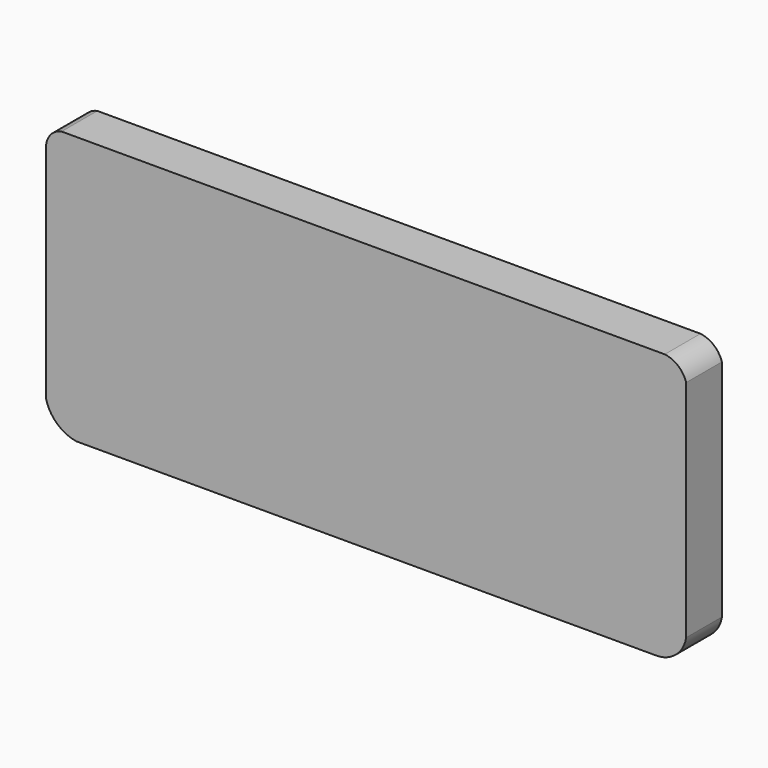
from build123d import *

# Parameters (mm, degrees)
F0_W     = 273.05
F0_H     = 114.3
F1_DEPTH = 19.05
F3_DEPTH = 25.4


with BuildPart() as f1:
    # F0 (on Front) → F1 (new body)
    with BuildSketch(Plane.XZ):
        with Locations((136.525, 57.15)):
            Rectangle(F0_W, F0_H)
    extrude(amount=F1_DEPTH)

    # F2 (on face) → F3 (cut)
    with BuildSketch(Plane.XZ.offset(19.05)):
        with BuildLine():
            ThreePointArc((0, 107.0055749257), (2.092673074, 111.7621294614), (6.6273510973, 114.3))
            Line((6.6273510973, 114.3), (0, 114.3))
            Line((0, 114.3), (0, 107.0055749257))
        make_face()
        with BuildLine():
            ThreePointArc((12.8718363121, 0), (4.7249016701, 3.9496408033), (0, 11.6728208959))
            Line((0, 11.6728208959), (0, 0))
            Line((0, 0), (12.8718363121, 0))
        make_face()
        with BuildLine():
            Line((273.05, 0), (273.05, 10.9064355493))
            ThreePointArc((273.05, 10.9064355493), (268.7766741331, 3.1791445557), (260.5386294647, 0))
            Line((260.5386294647, 0), (273.05, 0))
        make_face()
        with BuildLine():
            Line((273.05, 114.3), (263.9037072659, 114.3))
            ThreePointArc((263.9037072659, 114.3), (269.5968279196, 111.850995511), (273.05, 106.7046523094))
            Line((273.05, 106.7046523094), (273.05, 114.3))
        make_face()
    extrude(amount=-F3_DEPTH, mode=Mode.SUBTRACT)


solid = f1.part
